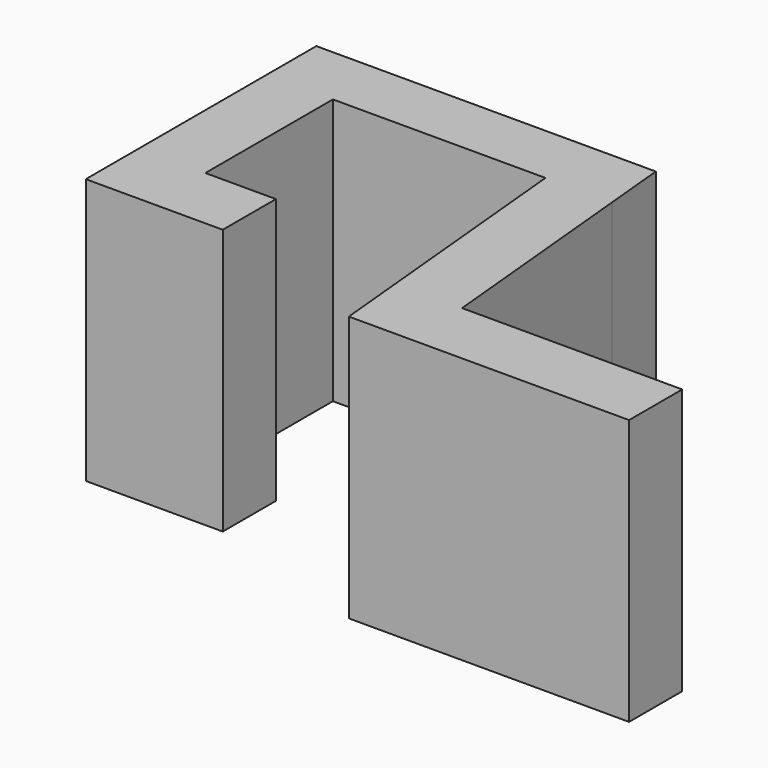
from build123d import *

# Parameters (mm, degrees)
F0_W     = 3.175
F0_H     = 2.978667
F0_H_2   = 7.62
F0_H_3   = 3.175
F0_W_2   = 3.372148
F1_DEPTH = 12.7


with BuildPart() as f1:
    # F0 (on Top) → F1 (new body)
    with BuildSketch(Plane.XY):
        with Locations((-11.7475, 1.489333)):
            Rectangle(F0_W, F0_H)
        Polygon((2.891317, 2.978667), (-10.16, 2.978667), (-10.16, 0), (0, 0), (3.175, 0), align=None)
        with Locations((-11.7475, -3.81)):
            Rectangle(F0_W, F0_H_2)
        with Locations((-11.7475, -9.2075)):
            Rectangle(F0_W, F0_H_3)
        with Locations((-8.473926, -9.2075)):
            Rectangle(F0_W_2, F0_H_3)
        Polygon((3.175, 0), (0, 0), (1.27, -13.335), (1.27, -10.16), (4.142619, -10.16), align=None)
        Polygon((1.27, -10.16), (1.27, -13.335), (4.445, -13.335), (4.142619, -10.16), align=None)
        Polygon((14.66534, -10.16), (4.142619, -10.16), (4.445, -13.335), (14.66534, -13.335), align=None)
    extrude(amount=F1_DEPTH)


solid = f1.part
